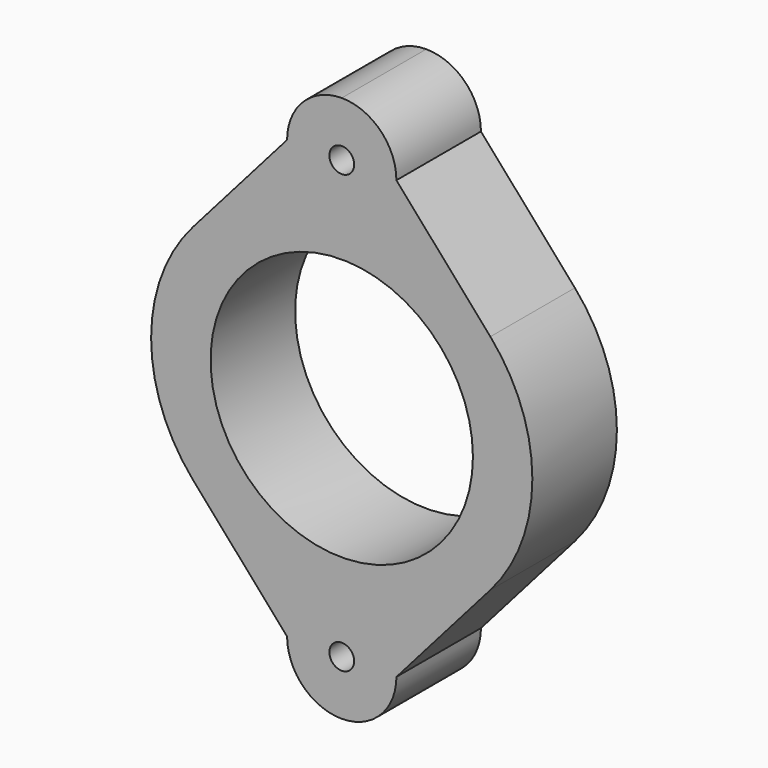
from build123d import *

# Parameters (mm, degrees)
F0_R     = 3.4
F0_R_2   = 36
F1_DEPTH = 29


with BuildPart() as f1:
    # F0 (on Front) → F1 (new body)
    with BuildSketch(Plane.XZ):
        with BuildLine():
            ThreePointArc((-99.807744, -65.08165), (-95.414346, -75.688252), (-84.807744, -80.08165))
            ThreePointArc((-84.807744, -80.08165), (-74.201142, -75.688252), (-69.807744, -65.08165))
            Line((-69.807744, -65.08165), (-44.015344, -35.68165))
            ThreePointArc((-44.015344, -35.68165), (-32.495199, -5.08165), (-44.015344, 25.51835))
            Line((-44.015344, 25.51835), (-69.807744, 54.91835))
            ThreePointArc((-69.807744, 54.91835), (-74.201142, 65.524952), (-84.807744, 69.91835))
            ThreePointArc((-84.807744, 69.91835), (-95.414346, 65.524952), (-99.807744, 54.91835))
            Line((-99.807744, 54.91835), (-125.607744, 25.51835))
            ThreePointArc((-125.607744, 25.51835), (-137.13044, -5.08165), (-125.607744, -35.68165))
            Line((-125.607744, -35.68165), (-99.807744, -65.08165))
        make_face()
        with Locations((-84.807744, -65.08165)):
            Circle(F0_R, mode=Mode.SUBTRACT)
        with Locations((-84.807744, -5.08165)):
            Circle(F0_R_2, mode=Mode.SUBTRACT)
        with Locations((-84.807744, 54.91835)):
            Circle(F0_R, mode=Mode.SUBTRACT)
    extrude(amount=F1_DEPTH)


solid = f1.part
